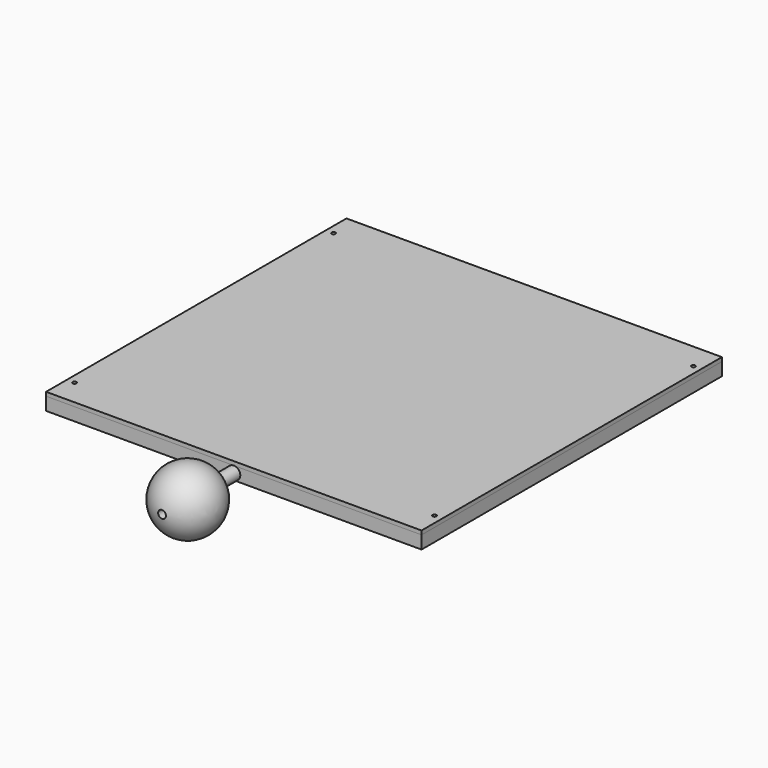
from build123d import *

# Parameters (mm, degrees)
F0_W      = 290
F0_H      = 290
F0_R      = 1.5
F1_DEPTH  = 2
F2_DEPTH  = 10
F3_DEPTH  = 3
F10_R     = 3
F11_DEPTH = 100


with BuildPart() as f1:
    # F0 (on Top) → F1 (new body)
    with BuildSketch(Plane.XY):
        Rectangle(F0_W, F0_H)
        with Locations((-139, -125)):
            Circle(F0_R, mode=Mode.SUBTRACT)
        with Locations((139, -125)):
            Circle(F0_R, mode=Mode.SUBTRACT)
        with Locations((-139, 125)):
            Circle(F0_R, mode=Mode.SUBTRACT)
        with Locations((139, 125)):
            Circle(F0_R, mode=Mode.SUBTRACT)
    extrude(amount=F1_DEPTH)


with BuildPart() as f2:
    # F0 (on Top) → F2 (new body)
    with BuildSketch(Plane.XY):
        Rectangle(F0_W, F0_H)
        with Locations((-139, -125)):
            Circle(F0_R, mode=Mode.SUBTRACT)
        with Locations((139, -125)):
            Circle(F0_R, mode=Mode.SUBTRACT)
        with Locations((-139, 125)):
            Circle(F0_R, mode=Mode.SUBTRACT)
        with Locations((139, 125)):
            Circle(F0_R, mode=Mode.SUBTRACT)
    extrude(amount=-F2_DEPTH)

    # F8 (on 3pt) → F9 (revolve)
    with BuildSketch(Plane(origin=(0, 0, -5), x_dir=(1, 0, 0), z_dir=(0, 0, -1))):
        with BuildLine():
            Line((0, 145), (5, 145))
            Line((5, 145), (5, 165))
            ThreePointArc((5, 165), (24.8734038251, 192.007621478), (0, 214.4948974278))
            Line((0, 214.4948974278), (0, 145))
        make_face()
    revolve(axis=Axis((0, -163.7877052568, -5), (0, -1, 0)))

    # F10 (on face) → F11 (cut)
    with BuildSketch(Plane.XZ.offset(145)):
        with Locations((0, -5)):
            Circle(F10_R)
    extrude(amount=F11_DEPTH, mode=Mode.SUBTRACT)


with BuildPart() as f3:
    # F0 (on Top) → F3 (new body)
    with BuildSketch(Plane.XY):
        Rectangle(F0_W, F0_H)
        with Locations((-139, -125)):
            Circle(F0_R, mode=Mode.SUBTRACT)
        with Locations((139, -125)):
            Circle(F0_R, mode=Mode.SUBTRACT)
        with Locations((-139, 125)):
            Circle(F0_R, mode=Mode.SUBTRACT)
        with Locations((139, 125)):
            Circle(F0_R, mode=Mode.SUBTRACT)
    extrude(amount=F3_DEPTH)


solid = Compound([f1.part, f2.part, f3.part])
